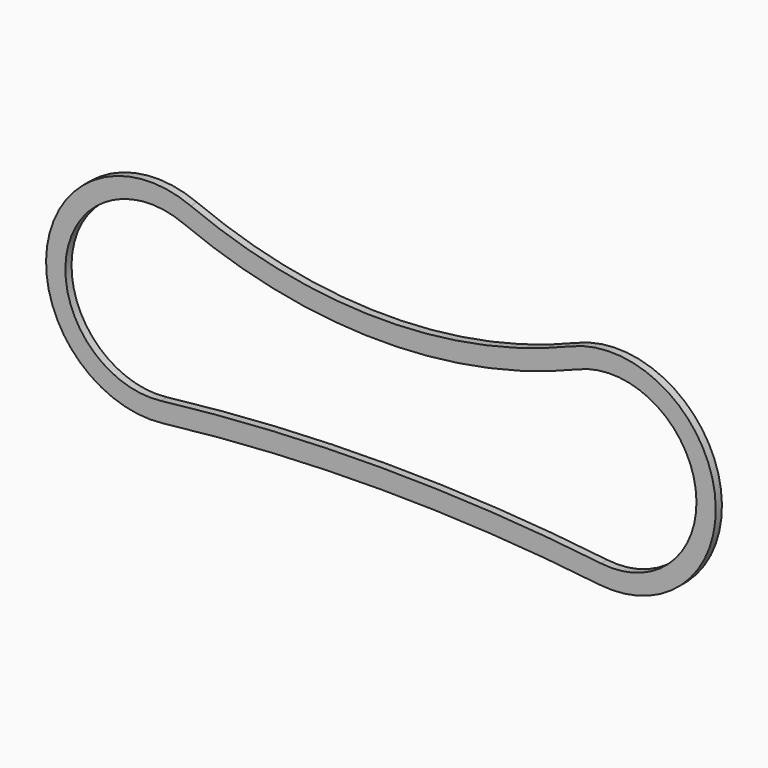
from build123d import *

# Parameters (mm, degrees)
F1_DEPTH = 20


with BuildPart() as f1:
    # F0 (on Front) → F1 (new body)
    with BuildSketch(Plane.XZ):
        with BuildLine():
            ThreePointArc((495.744581, 261.229422), (3.117411, 162.942499), (-489.509759, 261.229422))
            ThreePointArc((-489.509759, 261.229422), (-862.002519, 48.351392), (-561.951417, -258.303543))
            ThreePointArc((-561.951417, -258.303543), (3.117411, -225.273256), (568.18624, -258.303543))
            ThreePointArc((568.18624, -258.303543), (868.237341, 48.351392), (495.744581, 261.229422))
        make_face()
        with BuildLine():
            ThreePointArc((-567.776869, -208.644061), (-812.481605, 41.446388), (-508.697543, 215.057689))
            ThreePointArc((-508.697543, 215.057689), (3.117411, 112.942499), (514.932365, 215.057689))
            ThreePointArc((514.932365, 215.057689), (818.716427, 41.446388), (574.011691, -208.644061))
            ThreePointArc((574.011691, -208.644061), (3.117411, -175.273256), (-567.776869, -208.644061))
        make_face(mode=Mode.SUBTRACT)
    extrude(amount=F1_DEPTH)


solid = f1.part
